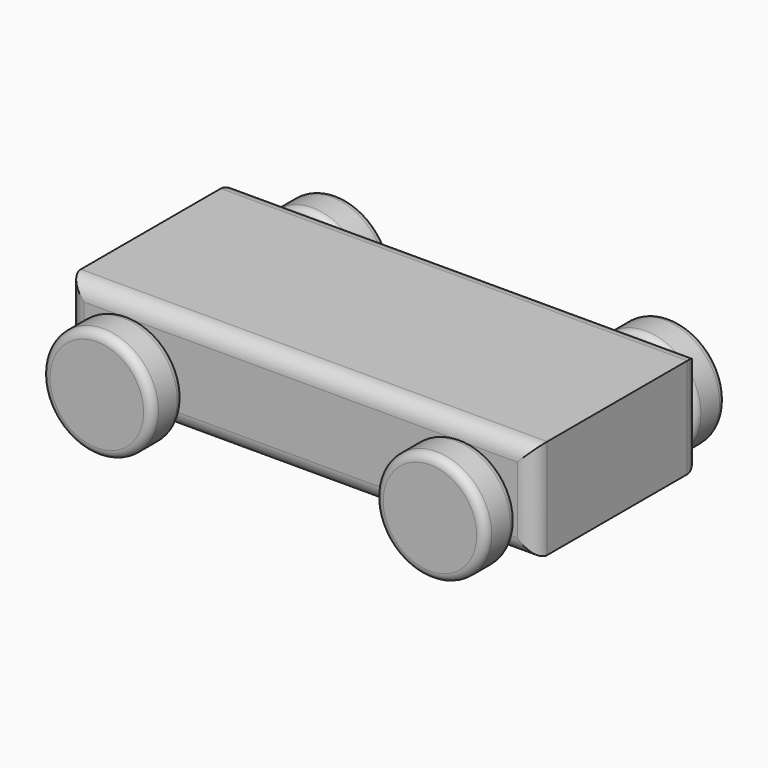
from build123d import *

# Parameters (mm, degrees)
F0_W     = 177.8
F0_H     = 38.1
F2_DEPTH = 39.6875
F4_R     = 21
F5_DEPTH = 15.24
F6_R     = 6.35
F7_R     = 3.175


with BuildPart() as f2:
    # F0 (on Front) → F2 (new body, symmetric)
    with BuildSketch(Plane.XZ):
        Rectangle(F0_W, F0_H)
    extrude(amount=F2_DEPTH, both=True)

    # F6
    f6_edges = [f2.edges().sort_by_distance(p)[0] for p in [
        (0, -39.6875, 19.05),
        (-88.9, -39.6875, 0),
        (0, -39.6875, -19.05),
        (88.9, -39.6875, 0),
        (88.9, 39.6875, 0),
        (0, 39.6875, 19.05),
        (-88.9, 39.6875, 0),
        (0, 39.6875, -19.05),
    ]]
    fillet(f6_edges, radius=F6_R)


with BuildPart() as f5:
    # F4 (on offset) → F5 (new body)
    with BuildSketch(Plane.XZ.offset(42.2275)):
        with Locations((63.5, -5.035)):
            Circle(F4_R)
    extrude(amount=F5_DEPTH)

    # F7
    f7_edges = [f5.edges().sort_by_distance(p)[0] for p in [
        (42.5, -57.4675, -5.035),
        (84.5, -49.8475, -5.035),
        (42.5, -42.2275, -5.035),
    ]]
    fillet(f7_edges, radius=F7_R)


with BuildPart() as f8_1:
    # F8: instance of F5
    add(f5.part.mirror(Plane.XZ))


with BuildPart() as f9_1:
    # F9: instance of F5
    add(f5.part.mirror(Plane.YZ))


with BuildPart() as f9_2:
    # F9: instance of F8_1
    add(f8_1.part.mirror(Plane.YZ))


solid = Compound([f2.part, f5.part, f8_1.part, f9_1.part, f9_2.part])
